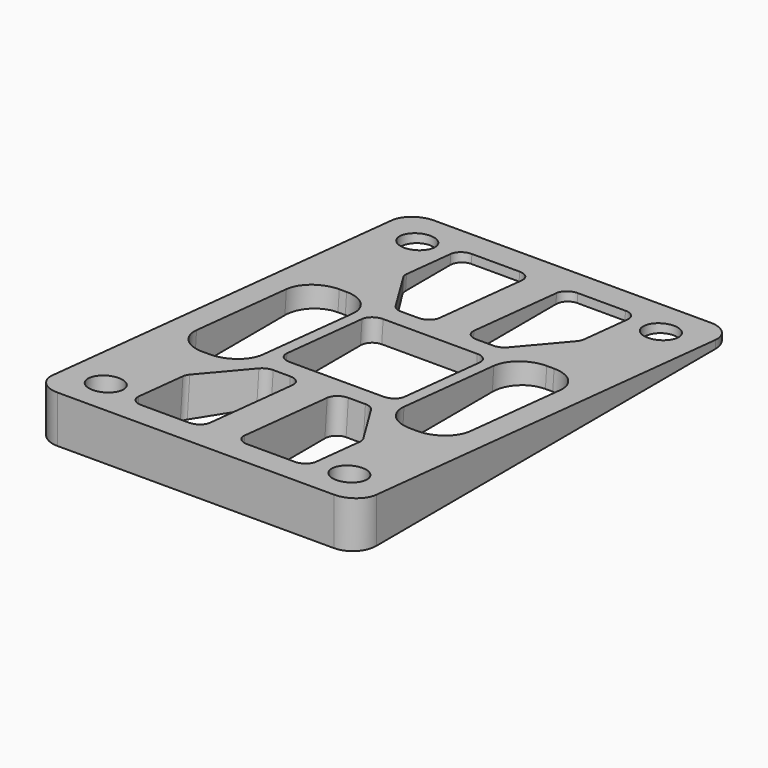
from build123d import *

# Parameters (mm, degrees)
F1_DEPTH = 55
F2_R     = 4
F3_R     = 2.8
F4_DEPTH = 25


with BuildPart() as f1:
    # F0 (on Right) → F1 (new body)
    with BuildSketch(Plane.YZ):
        Polygon((-0.4503256133, 6.495247405), (-0.4503256133, -1.504752595), (79.5496743867, -1.2945870653), (79.5496743867, -0.2945870653), align=None)
    extrude(amount=F1_DEPTH)

    # F2
    f2_edges = [f1.edges().sort_by_distance(p)[0] for p in [
        (0, -0.450326, 2.495247),
        (55, -0.450326, 2.495247),
        (0, 79.549674, -0.794587),
        (55, 79.549674, -0.794587),
    ]]
    fillet(f2_edges, radius=F2_R)

    # F3 (on face) → F4 (cut)
    with BuildSketch(Plane(origin=(0, 0.5441073712, 6.4108469631), x_dir=(1, 0, 0), z_dir=(0, 0.0845688851, 0.9964176352))):
        with BuildLine():
            Line((10.5, 52.5083540007), (9.25, 52.5083540007))
            ThreePointArc((9.25, 52.5083540007), (5.7144660941, 51.0438879067), (4.25, 47.5083540007))
            Line((4.25, 47.5083540007), (4.25, 28.3626182626))
            ThreePointArc((4.25, 28.3626182626), (5.7144660941, 24.8270843567), (9.25, 23.3626182626))
            Line((9.25, 23.3626182626), (10.5, 23.3626182626))
            ThreePointArc((10.5, 23.3626182626), (14.0355339059, 24.8270843567), (15.5, 28.3626182626))
            Line((15.5, 28.3626182626), (15.5, 47.5083540007))
            ThreePointArc((15.5, 47.5083540007), (14.0355339059, 51.0438879067), (10.5, 52.5083540007))
        make_face()
        with BuildLine():
            Line((19.5, 29.0019917861), (35.5, 29.0019917861))
            ThreePointArc((35.5, 29.0019917861), (36.9142135624, 29.5877782237), (37.5, 31.0019917861))
            Line((37.5, 31.0019917861), (37.5, 47.0019917861))
            ThreePointArc((37.5, 47.0019917861), (36.9142135624, 48.4162053484), (35.5, 49.0019917861))
            Line((35.5, 49.0019917861), (19.5, 49.0019917861))
            ThreePointArc((19.5, 49.0019917861), (18.0857864376, 48.4162053484), (17.5, 47.0019917861))
            Line((17.5, 47.0019917861), (17.5, 31.0019917861))
            ThreePointArc((17.5, 31.0019917861), (18.0857864376, 29.5877782237), (19.5, 29.0019917861))
        make_face()
        with BuildLine():
            Line((50.75, 28.3626182626), (50.75, 47.5083540007))
            ThreePointArc((50.75, 47.5083540007), (49.2855339059, 51.0438879067), (45.75, 52.5083540007))
            Line((45.75, 52.5083540007), (44.5, 52.5083540007))
            ThreePointArc((44.5, 52.5083540007), (40.9644660941, 51.0438879067), (39.5, 47.5083540007))
            Line((39.5, 47.5083540007), (39.5, 28.3626182626))
            ThreePointArc((39.5, 28.3626182626), (40.9644660941, 24.8270843567), (44.5, 23.3626182626))
            Line((44.5, 23.3626182626), (45.75, 23.3626182626))
            ThreePointArc((45.75, 23.3626182626), (49.2855339059, 24.8270843567), (50.75, 28.3626182626))
        make_face()
        with BuildLine():
            ThreePointArc((22.5658532124, 3.7519917861), (23.9800667747, 4.3377782237), (24.5658532124, 5.7519917861))
            Line((24.5658532124, 5.7519917861), (24.5658532124, 23.3626182626))
            ThreePointArc((24.5658532124, 23.3626182626), (23.9800667747, 24.776831825), (22.5658532124, 25.3626182626))
            Line((22.5658532124, 25.3626182626), (19.6637449961, 25.3626182626))
            ThreePointArc((19.6637449961, 25.3626182626), (18.7013266797, 25.1158298826), (17.9764220206, 24.436369247))
            Line((17.9764220206, 24.436369247), (12.7626770245, 16.243341396))
            ThreePointArc((12.7626770245, 16.243341396), (12.5297596568, 15.7287657192), (12.45, 15.1695904116))
            Line((12.45, 15.1695904116), (12.45, 5.7519917861))
            ThreePointArc((12.45, 5.7519917861), (13.0357864376, 4.3377782237), (14.45, 3.7519917861))
            Line((14.45, 3.7519917861), (22.5658532124, 3.7519917861))
        make_face()
        with BuildLine():
            Line((30.4341467876, 23.3626182626), (30.4341467876, 5.7519917861))
            ThreePointArc((30.4341467876, 5.7519917861), (31.0199332253, 4.3377782237), (32.4341467876, 3.7519917861))
            Line((32.4341467876, 3.7519917861), (40.55, 3.7519917861))
            ThreePointArc((40.55, 3.7519917861), (41.9642135624, 4.3377782237), (42.55, 5.7519917861))
            Line((42.55, 5.7519917861), (42.55, 15.1695904116))
            ThreePointArc((42.55, 15.1695904116), (42.4702403432, 15.7287657192), (42.2373229755, 16.243341396))
            Line((42.2373229755, 16.243341396), (37.0235779794, 24.436369247))
            ThreePointArc((37.0235779794, 24.436369247), (36.2986733203, 25.1158298826), (35.3362550039, 25.3626182626))
            Line((35.3362550039, 25.3626182626), (32.4341467876, 25.3626182626))
            ThreePointArc((32.4341467876, 25.3626182626), (31.0199332253, 24.776831825), (30.4341467876, 23.3626182626))
        make_face()
        with BuildLine():
            ThreePointArc((32.4341467876, 74.2519917861), (31.0199332253, 73.6662053484), (30.4341467876, 72.2519917861))
            Line((30.4341467876, 72.2519917861), (30.4341467876, 54.6413653095))
            ThreePointArc((30.4341467876, 54.6413653095), (31.0199332253, 53.2271517471), (32.4341467876, 52.6413653095))
            Line((32.4341467876, 52.6413653095), (35.3362550039, 52.6413653095))
            ThreePointArc((35.3362550039, 52.6413653095), (36.2986733203, 52.8881536895), (37.0235779794, 53.5676143251))
            Line((37.0235779794, 53.5676143251), (42.2373229755, 61.7606421761))
            ThreePointArc((42.2373229755, 61.7606421761), (42.4702403432, 62.2752178529), (42.55, 62.8343931605))
            Line((42.55, 62.8343931605), (42.55, 72.2519917861))
            ThreePointArc((42.55, 72.2519917861), (41.9642135624, 73.6662053484), (40.55, 74.2519917861))
            Line((40.55, 74.2519917861), (32.4341467876, 74.2519917861))
        make_face()
        with BuildLine():
            Line((22.5658532124, 74.2519917861), (14.45, 74.2519917861))
            ThreePointArc((14.45, 74.2519917861), (13.0357864376, 73.6662053484), (12.45, 72.2519917861))
            Line((12.45, 72.2519917861), (12.45, 62.8343931605))
            ThreePointArc((12.45, 62.8343931605), (12.5297596568, 62.2752178529), (12.7626770245, 61.7606421761))
            Line((12.7626770245, 61.7606421761), (17.9764220206, 53.5676143251))
            ThreePointArc((17.9764220206, 53.5676143251), (18.7013266797, 52.8881536895), (19.6637449961, 52.6413653095))
            Line((19.6637449961, 52.6413653095), (22.5658532124, 52.6413653095))
            ThreePointArc((22.5658532124, 52.6413653095), (23.9800667747, 53.2271517471), (24.5658532124, 54.6413653095))
            Line((24.5658532124, 54.6413653095), (24.5658532124, 72.2519917861))
            ThreePointArc((24.5658532124, 72.2519917861), (23.9800667747, 73.6662053484), (22.5658532124, 74.2519917861))
        make_face()
        with Locations((48.2, 72.2019917861)):
            Circle(F3_R)
        with Locations((48.2, 5.8019917861)):
            Circle(F3_R)
        with Locations((6.8, 5.8019917861)):
            Circle(F3_R)
        with Locations((6.8, 72.2019917861)):
            Circle(F3_R)
    extrude(amount=-F4_DEPTH, mode=Mode.SUBTRACT)


solid = f1.part
